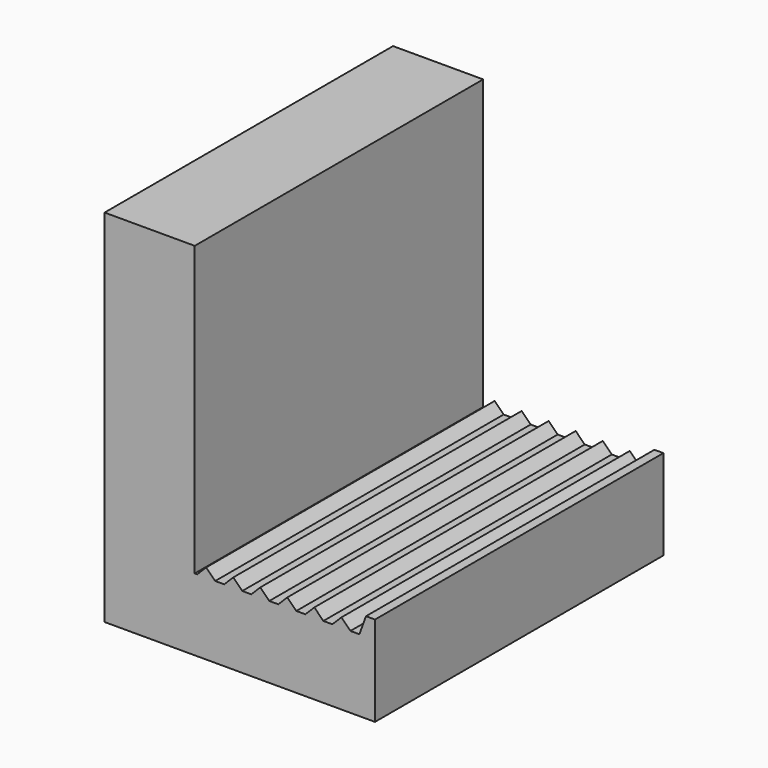
from build123d import *

# Parameters (mm, degrees)
F1_DEPTH = 50.8


with BuildPart() as f1:
    # F0 (on Front) → F1 (new body)
    with BuildSketch(Plane.XZ):
        Polygon((-38.1, 0), (0, 0), (0, 12.7), (-1.27, 12.7), (-2.194484, 10.16), (-3.464484, 10.16), (-4.734484, 11.43), (-6.004484, 10.16), (-7.274484, 10.16), (-8.544484, 11.43), (-9.814484, 10.16), (-11.084484, 10.16), (-12.354484, 11.43), (-13.624484, 10.16), (-14.894484, 10.16), (-16.164484, 11.43), (-17.434484, 10.16), (-18.704484, 10.16), (-19.974484, 11.43), (-21.244484, 10.16), (-22.514484, 10.16), (-23.784484, 11.43), (-25.054484, 10.16), (-25.4, 10.16), (-25.4, 50.8), (-38.1, 50.8), align=None)
    extrude(amount=-F1_DEPTH)


solid = f1.part
